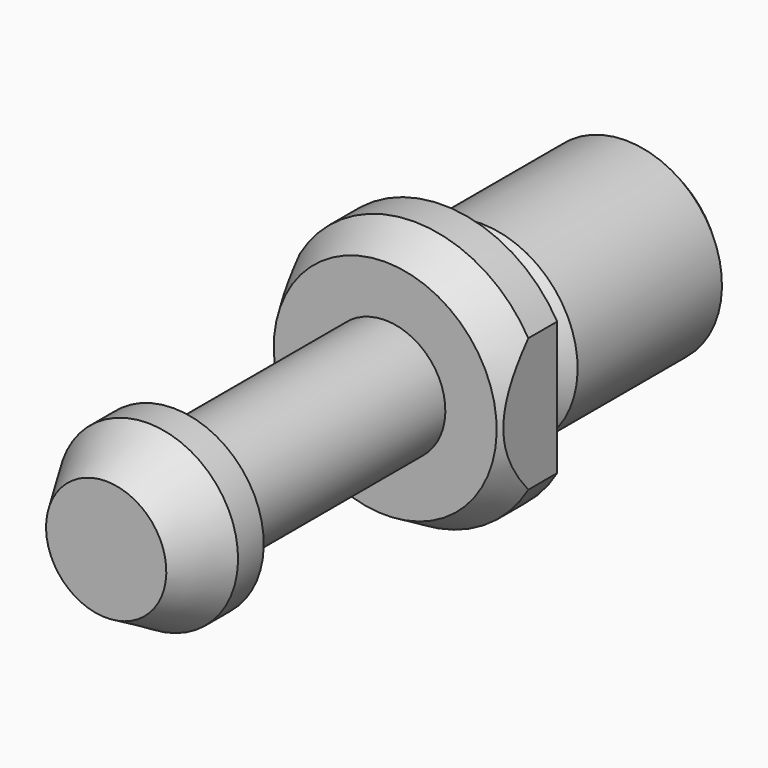
from build123d import *

# Parameters (mm, degrees)
F0_W     = 22
F0_H     = 5
F0_W_2   = 3
F2_SIZE  = 1
F3_W     = 3
F3_H     = 11.090536
F4_DEPTH = 27.256256


with BuildPart() as f1:
    # F0 (on Right) → F1 (revolve)
    with BuildSketch(Plane.YZ):
        with Locations((-11, 2.5)):
            Rectangle(F0_W, F0_H)
        Polygon((0, 5), (0, 0), (3, 0), (3, 11), (0, 9.267949), align=None)
        Polygon((-24.669873, 0), (-22, 0), (-22, 5), (-22, 7.5), (-24.669873, 7.5), align=None)
        Polygon((3, 11), (3, 0), (6, 0), (6, 5), (6, 11), align=None)
        Polygon((-29, 0), (-24.669873, 0), (-24.669873, 7.5), (-29, 5), align=None)
        with Locations((7.5, 2.5)):
            Rectangle(F0_W_2, F0_H)
        Polygon((9, 5), (9, 0), (26, 0), (26, 8), (9, 8), align=None)
    revolve(axis=Axis((0, 0.418028, 0), (0, 1, 0)))

    # F2
    f2_edges = [f1.edges().sort_by_distance(p)[0] for p in [
        (0, 9, -8),
        (0, 26, -8),
    ]]
    chamfer(f2_edges, length=F2_SIZE)

    # F3 (on Front) → F4 (cut)
    with BuildSketch(Plane.XZ):
        with Locations((11, 0)):
            Rectangle(F3_W, F3_H)
        with Locations((-11, 0)):
            Rectangle(F3_W, F3_H)
    extrude(amount=-F4_DEPTH, mode=Mode.SUBTRACT)


solid = f1.part
